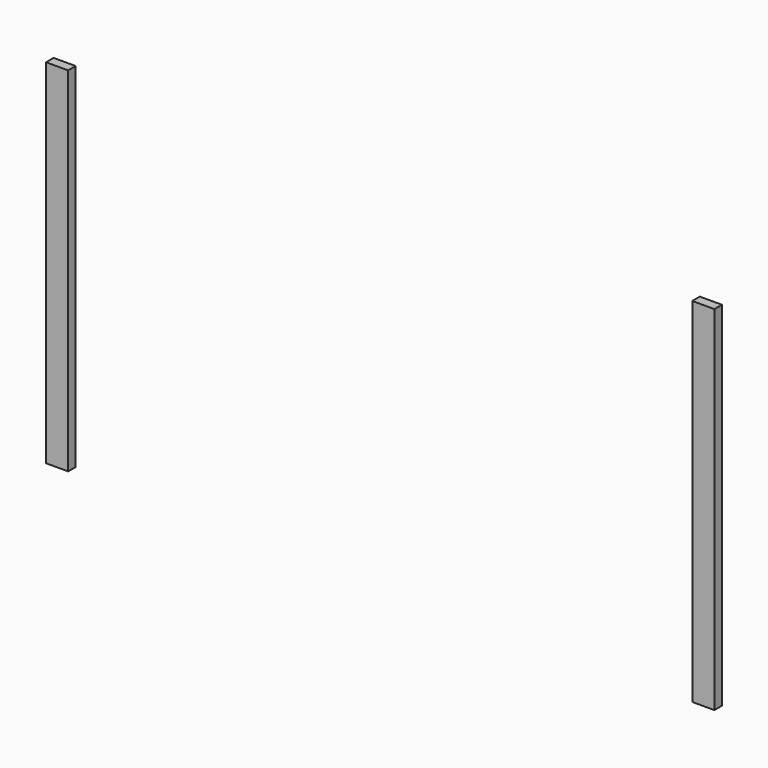
from build123d import *

# Parameters (mm, degrees)
F0_W     = 44.45
F0_H     = 711.2
F1_DEPTH = 19.05


with BuildPart() as f1:
    # F0 (on Front) → F1 (new body)
    with BuildSketch(Plane.XZ):
        with Locations((650.875, 0)):
            Rectangle(F0_W, F0_H)
        with Locations((-650.875, 0)):
            Rectangle(F0_W, F0_H)
    extrude(amount=-F1_DEPTH)


solid = f1.part
